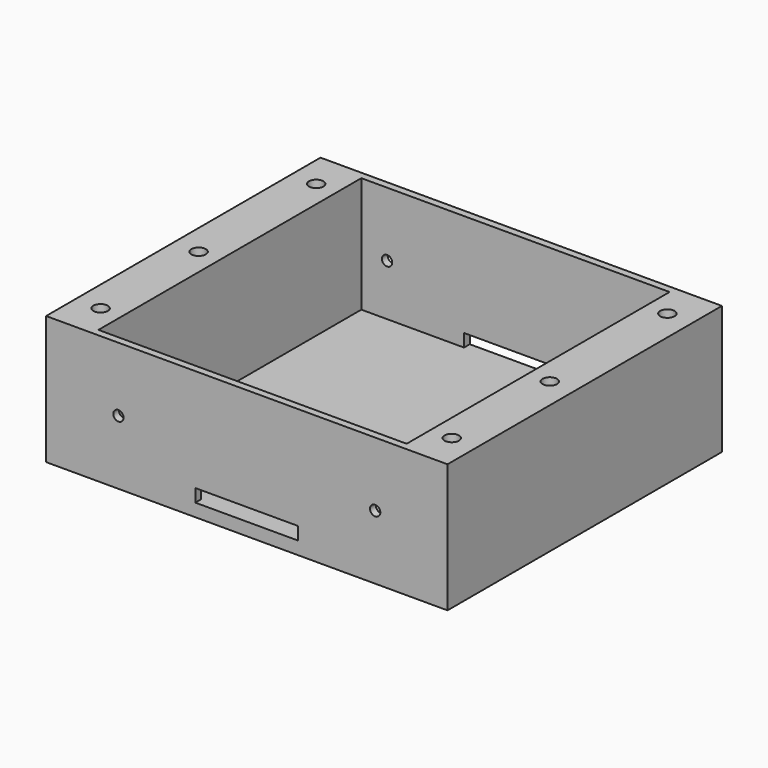
from build123d import *

# Parameters (mm, degrees)
F0_W     = 146.05
F0_H     = 133.35
F0_R     = 3.24
F0_W_2   = 5
F1_DEPTH = 50
F2_D     = 5.6
F2_DEPTH = 20
F2_TIP   = 1.6824097333
F3_W     = 119.824
F3_H     = 127.75
F4_DEPTH = 45
F5_W     = 40
F5_H     = 5
F6_DEPTH = 133.351
F7_D     = 4


with BuildPart() as f1:
    # F0 (on Top) → F1 (new body)
    with BuildSketch(Plane.XY):
        Rectangle(F0_W, F0_H)
        with Locations((-68.262, -52.387)):
            Circle(F0_R, mode=Mode.SUBTRACT)
        with Locations((-68.262, -4.7625)):
            Circle(F0_R, mode=Mode.SUBTRACT)
        with Locations((68.262, -52.387)):
            Circle(F0_R, mode=Mode.SUBTRACT)
        with Locations((68.262, -4.7625)):
            Circle(F0_R, mode=Mode.SUBTRACT)
        with BuildLine():
            Line((72.225, 46.037), (72.225, 1.5875))
            Line((72.225, 1.5875), (68.262, 1.5875))
            ThreePointArc((68.262, 1.5875), (61.912, -4.7625), (68.262, -11.1125))
            Line((68.262, -11.1125), (72.225, -11.1125))
            Line((72.225, -11.1125), (72.225, -46.037))
            Line((72.225, -46.037), (68.262, -46.037))
            ThreePointArc((68.262, -46.037), (61.912, -52.387), (68.262, -58.737))
            Line((68.262, -58.737), (72.225, -58.737))
            Line((72.225, -58.737), (72.225, -65.875))
            Line((72.225, -65.875), (-72.225, -65.875))
            Line((-72.225, -65.875), (-72.225, -58.737))
            Line((-72.225, -58.737), (-68.262, -58.737))
            ThreePointArc((-68.262, -58.737), (-61.912, -52.387), (-68.262, -46.037))
            Line((-68.262, -46.037), (-72.225, -46.037))
            Line((-72.225, -46.037), (-72.225, -11.1125))
            Line((-72.225, -11.1125), (-68.262, -11.1125))
            ThreePointArc((-68.262, -11.1125), (-61.912, -4.7625), (-68.262, 1.5875))
            Line((-68.262, 1.5875), (-72.225, 1.5875))
            Line((-72.225, 1.5875), (-72.225, 46.037))
            Line((-72.225, 46.037), (-68.262, 46.037))
            ThreePointArc((-68.262, 46.037), (-61.912, 52.387), (-68.262, 58.737))
            Line((-68.262, 58.737), (-72.225, 58.737))
            Line((-72.225, 58.737), (-72.225, 65.875))
            Line((-72.225, 65.875), (72.225, 65.875))
            Line((72.225, 65.875), (72.225, 58.737))
            Line((72.225, 58.737), (68.262, 58.737))
            ThreePointArc((68.262, 58.737), (61.912, 52.387), (68.262, 46.037))
            Line((68.262, 46.037), (72.225, 46.037))
        make_face(mode=Mode.SUBTRACT)
        with Locations((-68.262, 52.387)):
            Circle(F0_R, mode=Mode.SUBTRACT)
        with Locations((68.262, 52.387)):
            Circle(F0_R, mode=Mode.SUBTRACT)
        with BuildLine():
            Line((68.262, 1.5875), (72.225, 1.5875))
            Line((72.225, 1.5875), (72.225, 46.037))
            Line((72.225, 46.037), (68.262, 46.037))
            ThreePointArc((68.262, 46.037), (61.912, 52.387), (68.262, 58.737))
            Line((68.262, 58.737), (72.225, 58.737))
            Line((72.225, 58.737), (72.225, 65.875))
            Line((72.225, 65.875), (-72.225, 65.875))
            Line((-72.225, 65.875), (-72.225, 58.737))
            Line((-72.225, 58.737), (-68.262, 58.737))
            ThreePointArc((-68.262, 58.737), (-61.912, 52.387), (-68.262, 46.037))
            Line((-68.262, 46.037), (-72.225, 46.037))
            Line((-72.225, 46.037), (-72.225, 1.5875))
            Line((-72.225, 1.5875), (-68.262, 1.5875))
            ThreePointArc((-68.262, 1.5875), (-61.912, -4.7625), (-68.262, -11.1125))
            Line((-68.262, -11.1125), (-72.225, -11.1125))
            Line((-72.225, -11.1125), (-72.225, -46.037))
            Line((-72.225, -46.037), (-68.262, -46.037))
            ThreePointArc((-68.262, -46.037), (-61.912, -52.387), (-68.262, -58.737))
            Line((-68.262, -58.737), (-72.225, -58.737))
            Line((-72.225, -58.737), (-72.225, -65.875))
            Line((-72.225, -65.875), (72.225, -65.875))
            Line((72.225, -65.875), (72.225, -58.737))
            Line((72.225, -58.737), (68.262, -58.737))
            ThreePointArc((68.262, -58.737), (61.912, -52.387), (68.262, -46.037))
            Line((68.262, -46.037), (72.225, -46.037))
            Line((72.225, -46.037), (72.225, -11.1125))
            Line((72.225, -11.1125), (68.262, -11.1125))
            ThreePointArc((68.262, -11.1125), (61.912, -4.7625), (68.262, 1.5875))
        make_face()
        with Locations((-75.525, 0)):
            Rectangle(F0_W_2, F0_H)
        with Locations((75.525, 0)):
            Rectangle(F0_W_2, F0_H)
        with Locations((-68.262, 52.387)):
            Circle(F0_R)
        with Locations((-68.262, -4.7625)):
            Circle(F0_R)
        with Locations((-68.262, -52.387)):
            Circle(F0_R)
        with Locations((68.262, -52.387)):
            Circle(F0_R)
        with Locations((68.262, -4.7625)):
            Circle(F0_R)
        with Locations((68.262, 52.387)):
            Circle(F0_R)
    extrude(amount=-F1_DEPTH)

    # F2
    with Locations(Plane.XY):
        with Locations((-68.262, 52.387), (-68.262, -4.7625), (-68.262, -52.387), (68.262, -52.387), (68.262, -4.7625), (68.262, 52.387)):
            Hole(F2_D / 2, depth=F2_DEPTH)
            with Locations((0, 0, -(F2_DEPTH + F2_TIP / 2))):  # 118° drill point
                Cone(0, F2_D / 2, F2_TIP, mode=Mode.SUBTRACT)

    # F3 (on face) → F4 (cut)
    with BuildSketch(Plane.XY):
        Rectangle(F3_W, F3_H)
    extrude(amount=-F4_DEPTH, mode=Mode.SUBTRACT)

    # F5 (on face) → F6 (cut, through all)
    with BuildSketch(Plane.XZ.offset(66.675)):
        with Locations((0, -42.5)):
            Rectangle(F5_W, F5_H)
    extrude(amount=-F6_DEPTH, mode=Mode.SUBTRACT)

    # F7 (through all)
    with Locations(Plane.XZ.offset(66.675)):
        with Locations((-49.912, -25), (49.912, -25)):
            Hole(F7_D / 2)


solid = f1.part
